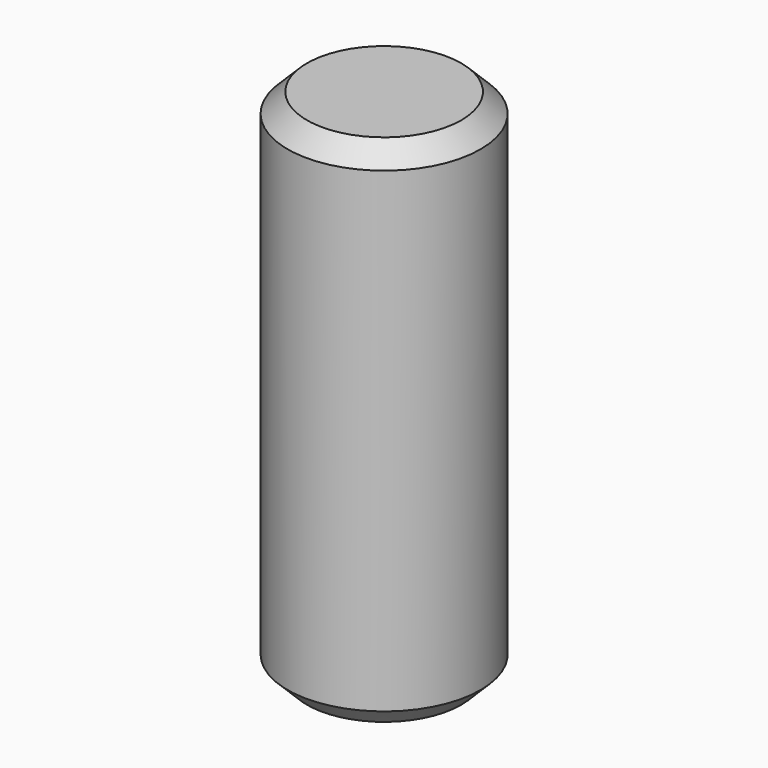
from build123d import *

# Parameters (mm, degrees)
F0_R     = 3
F1_DEPTH = 8
F2_SIZE  = 0.6


with BuildPart() as f1:
    # F0 (on Top) → F1 (new body, symmetric)
    with BuildSketch(Plane.XY):
        Circle(F0_R)
    extrude(amount=F1_DEPTH, both=True)

    # F2
    f2_edges = [f1.edges().sort_by_distance(p)[0] for p in [
        (-3, 0, 8),
        (-3, 0, -8),
    ]]
    chamfer(f2_edges, length=F2_SIZE)


solid = f1.part
